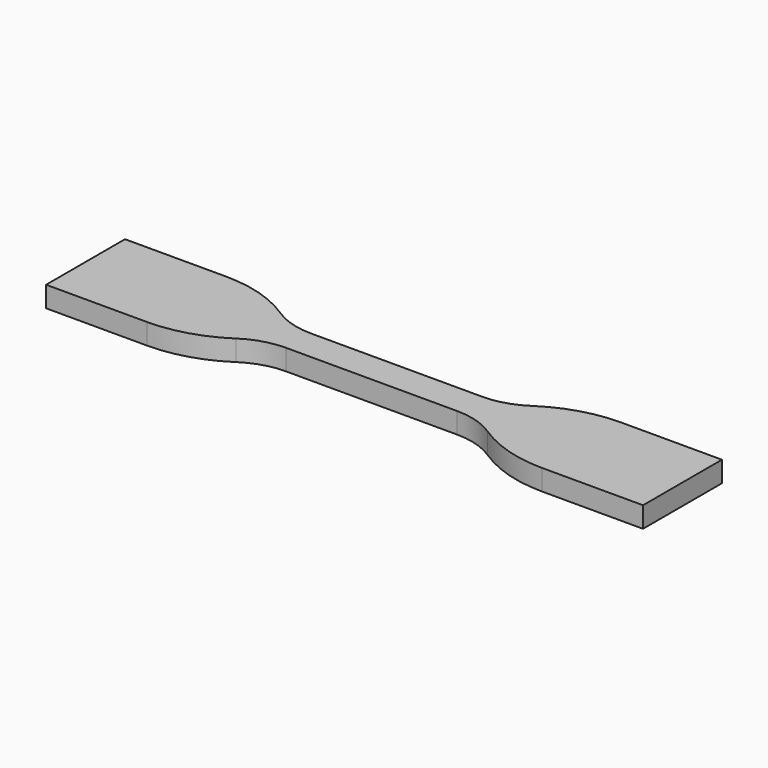
from build123d import *

# Parameters (mm, degrees)
F1_DEPTH = 4


with BuildPart() as f1:
    # F0 (on Top) → F1 (new body)
    with BuildSketch(Plane.XY):
        with BuildLine():
            Line((0, 9.5), (0, 0))
            Line((0, 0), (0, -9.5))
            Line((0, -9.5), (19.44, -9.5))
            ThreePointArc((19.44, -9.5), (26.656878, -8.435678), (33.25927, -5.333333))
            ThreePointArc((33.25927, -5.333333), (36.956609, -3.59602), (40.998061, -3))
            Line((40.998061, -3), (73.998061, -3))
            ThreePointArc((73.998061, -3), (78.039513, -3.596021), (81.736852, -5.333333))
            ThreePointArc((81.736852, -5.333333), (88.3411, -8.436238), (95.56, -9.5))
            Line((95.56, -9.5), (115, -9.5))
            Line((115, -9.5), (115, 0))
            Line((115, 0), (115, 9.5))
            Line((115, 9.5), (95.56, 9.5))
            ThreePointArc((95.56, 9.5), (88.3411, 8.436238), (81.736852, 5.333333))
            ThreePointArc((81.736852, 5.333333), (78.039513, 3.596021), (73.998061, 3))
            Line((73.998061, 3), (40.998061, 3))
            ThreePointArc((40.998061, 3), (36.956609, 3.59602), (33.25927, 5.333333))
            ThreePointArc((33.25927, 5.333333), (26.656878, 8.435678), (19.44, 9.5))
            Line((19.44, 9.5), (0, 9.5))
        make_face()
    extrude(amount=F1_DEPTH)


solid = f1.part
